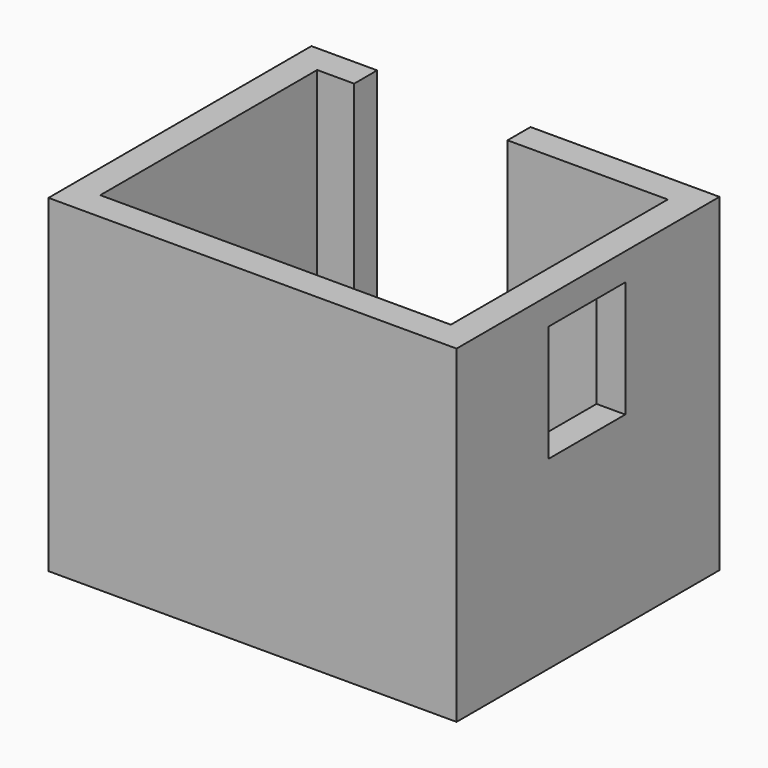
from build123d import *

# Parameters (mm, degrees)
F3_DEPTH  = 240
F5_DEPTH  = 20
F6_W      = 112
F6_H      = 241.106075
F7_DEPTH  = 25
F8_W      = 70.001994
F8_H      = 85
F9_DEPTH  = 25
F10_W     = 50
F10_H     = 198.001994
F11_DEPTH = 50


with BuildPart() as f3:
    # F2 (on face) → F3 (new body)
    with BuildSketch(Plane.XY):
        Polygon((-627, -343.001994), (-627, -273), (-627, -187), (-765, -187), (-877, -187), (-925, -187), (-925, -427.001994), (-627, -427.001994), align=None)
        Polygon((-765, -208), (-648, -208), (-648, -273), (-648, -343.001994), (-648, -406.001994), (-904, -406.001994), (-904, -208), (-877, -208), align=None, mode=Mode.SUBTRACT)
    extrude(amount=F3_DEPTH)

    # F4 (on face) → F5 (join)
    with BuildSketch(Plane.XY):
        Polygon((-648, -273), (-648, -208), (-765, -208), (-877, -208), (-904, -208), (-904, -406.001994), (-648, -406.001994), (-648, -343.001994), align=None)
    extrude(amount=F5_DEPTH)

    # F6 (on face) → F7 (cut)
    with BuildSketch(Plane(origin=(0, -187, 0), x_dir=(-1, 0, 0), z_dir=(0, 1, 0))):
        with Locations((821, 140.553037)):
            Rectangle(F6_W, F6_H)
    extrude(amount=-F7_DEPTH, mode=Mode.SUBTRACT)

    # F8 (on face) → F9 (cut)
    with BuildSketch(Plane.YZ.offset(-627)):
        with Locations((-308.000997, 177.5)):
            Rectangle(F8_W, F8_H)
    extrude(amount=-F9_DEPTH, mode=Mode.SUBTRACT)

    # F10 (on face) → F11 (join)
    with BuildSketch(Plane.XY.offset(20)):
        with Locations((-673, -307.000997)):
            Rectangle(F10_W, F10_H)
    extrude(amount=F11_DEPTH)


solid = f3.part
